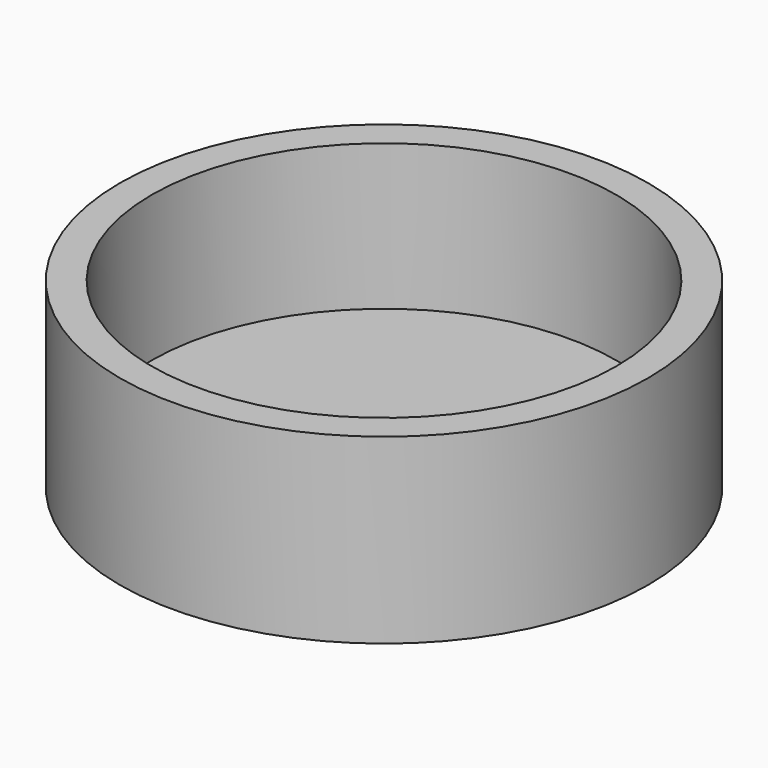
from build123d import *

# Parameters (mm, degrees)
F0_R     = 14.5
F1_DEPTH = 10
F2_R     = 12.75
F3_DEPTH = 8
F4_R     = 2
F5_DEPTH = 2


with BuildPart() as f1:
    # F0 (on Top) → F1 (new body)
    with BuildSketch(Plane.XY):
        Circle(F0_R)
    extrude(amount=F1_DEPTH)

    # F2 (on face) → F3 (cut)
    with BuildSketch(Plane.XY.offset(10)):
        Circle(F2_R)
    extrude(amount=-F3_DEPTH, mode=Mode.SUBTRACT)

    # F4 (on Top) → F5 (cut)
    with BuildSketch(Plane.XY):
        Circle(F4_R)
    extrude(amount=F5_DEPTH, mode=Mode.SUBTRACT)


solid = f1.part
